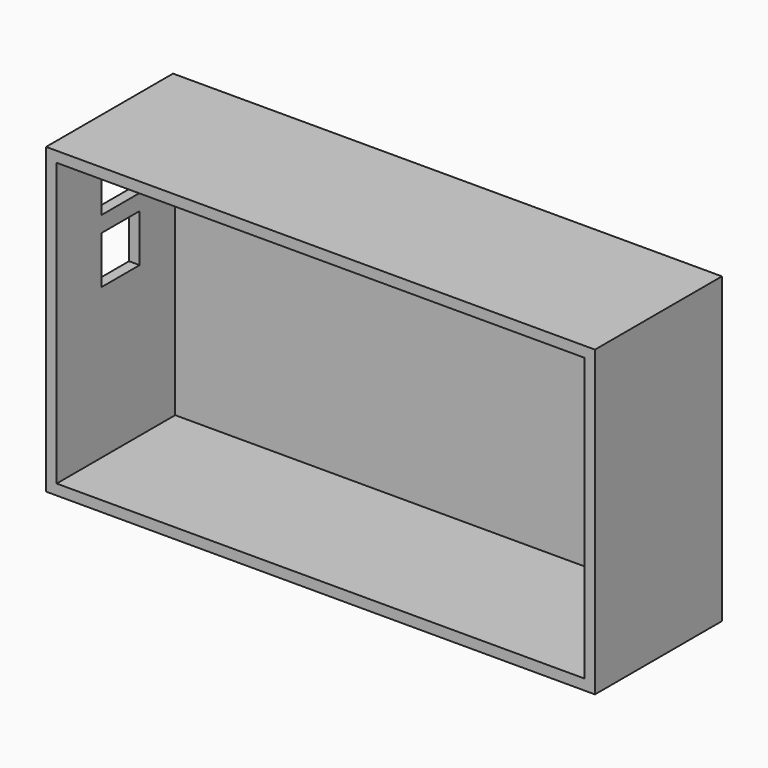
from build123d import *

# Parameters (mm, degrees)
F0_W     = 131.784498
F0_H     = 72.877914
F1_DEPTH = 38.1
F2_T     = -2.54
F3_W     = 11.43
F3_H     = 11.43
F4_DEPTH = 25.4
F5_W     = 11.43
F5_H     = 11.43
F6_DEPTH = 25.4


with BuildPart() as f1:
    # F0 (on Front) → F1 (new body)
    with BuildSketch(Plane.XZ):
        Rectangle(F0_W, F0_H)
    extrude(amount=F1_DEPTH)

    # F2
    f2_openings = [f1.faces().sort_by_distance(p)[0] for p in [
        (0, -38.1, 0),
    ]]
    offset(amount=F2_T, openings=f2_openings)

    # F3 (on face) → F4 (cut)
    with BuildSketch(Plane(origin=(-65.892249, 0, 0), x_dir=(0, -1, 0), z_dir=(-1, 0, 0))):
        with Locations((18.923, 23.103957)):
            Rectangle(F3_W, F3_H)
    extrude(amount=-F4_DEPTH, mode=Mode.SUBTRACT)

    # F5 (on face) → F6 (cut)
    with BuildSketch(Plane(origin=(-65.892249, 0, 0), x_dir=(0, -1, 0), z_dir=(-1, 0, 0))):
        with Locations((18.923, 7.863193)):
            Rectangle(F5_W, F5_H)
    extrude(amount=-F6_DEPTH, mode=Mode.SUBTRACT)


solid = f1.part
